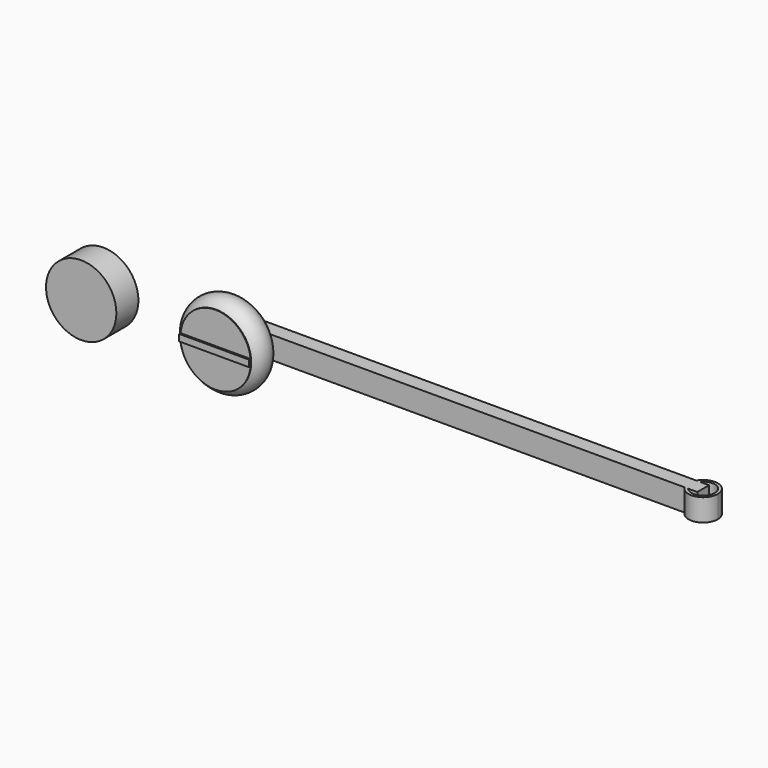
from build123d import *

# Parameters (mm, degrees)
F0_R      = 60
F2_DEPTH  = 23.5
F1_R      = 60
F6_R      = 9
F7_DEPTH  = 45
F9_W      = 800
F9_H      = 38
F10_DEPTH = 25
F12_DEPTH = 38
F13_W     = 119.4692074683
F13_H     = 11.2742390827
F14_DEPTH = 3


with BuildPart() as f2:
    # F0 (on Front) → F2 (new body, symmetric)
    with BuildSketch(Plane.XZ):
        Circle(F0_R)
    extrude(amount=F2_DEPTH, both=True)

    # F4 (on face) → F5 (revolve)
    with BuildSketch(Plane.YZ):
        with BuildLine():
            Line((-22.529049166, 60), (22.529049166, 60))
            ThreePointArc((22.529049166, 60), (0, 72.3934189958), (-22.529049166, 60))
        make_face()
    revolve(axis=Axis((0, -3.9980601143, 0), (0, -1, 0)))

    # F6 (on face) → F7 (join)
    with BuildSketch(Plane(origin=(0, 23.5, 0), x_dir=(-1, 0, 0), z_dir=(0, 1, 0))):
        Circle(F6_R)
    extrude(amount=F7_DEPTH)

    # F13 (on face) → F14 (join)
    with BuildSketch(Plane.XZ.offset(23.5)):
        Rectangle(F13_W, F13_H)
    extrude(amount=F14_DEPTH)


with BuildPart() as f2b:
    # F1 (on Front) → F2, piece 2 (new body, symmetric)
    with BuildSketch(Plane.XZ):
        with Locations((-229.1755825281, 0)):
            Circle(F1_R)
    extrude(amount=F2_DEPTH, both=True)


with BuildPart() as f10:
    # F9 (on offset) → F10 (new body)
    with BuildSketch(Plane(origin=(0, 28.5, 0), x_dir=(-1, 0, 0), z_dir=(0, 1, 0))):
        with Locations((-380, 0)):
            Rectangle(F9_W, F9_H)
    extrude(amount=F10_DEPTH)

    # F11 (on face) → F12 (join)
    with BuildSketch(Plane.XY.offset(19)):
        with BuildLine():
            ThreePointArc((758.3493649054, 28.5), (786.4704761276, 16.8518543428), (805, 41))
            ThreePointArc((805, 41), (786.4704761276, 65.1481456572), (758.3493649054, 53.5))
            Line((758.3493649054, 53.5), (764.387505004, 53.5))
            ThreePointArc((764.387505004, 53.5), (786.623824427, 59.8712731409), (800, 41))
            ThreePointArc((800, 41), (786.623824427, 22.1287268591), (764.387505004, 28.5))
            Line((764.387505004, 28.5), (758.3493649054, 28.5))
        make_face()
    extrude(amount=-F12_DEPTH)


solid = Compound([f2.part, f2b.part, f10.part])
